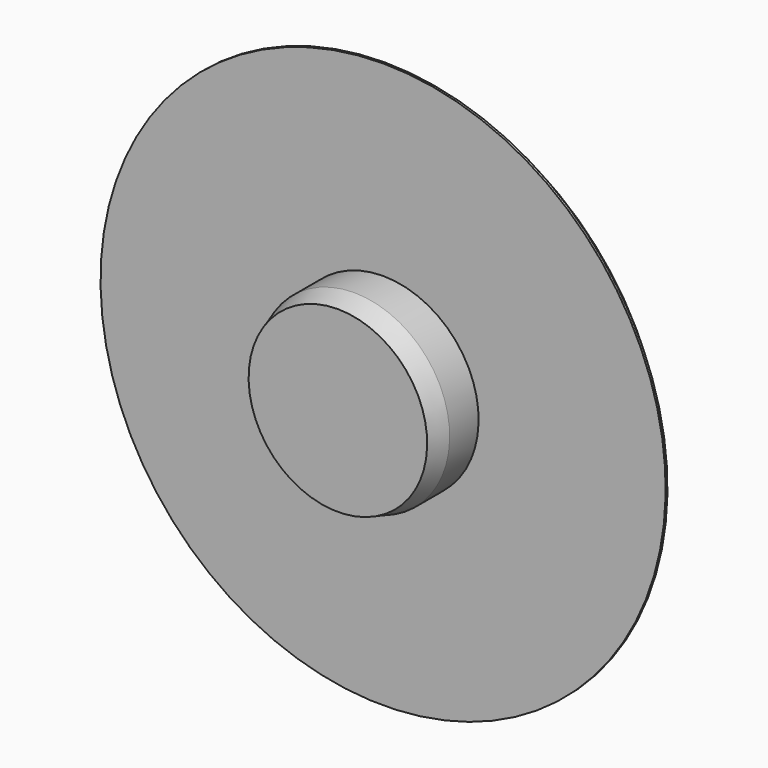
from build123d import *

# Parameters (mm, degrees)
F2_SIZE = 0.9


with BuildPart() as f1:
    # F0 (on Right) → F1 (revolve)
    with BuildSketch(Plane.YZ):
        Polygon((0, 0), (3.5, 0), (3.5, 12.5), (2.5, 12.5), (2.5, 4.225), (0.9, 4.225), (0, 3.95), align=None)
    revolve(axis=Axis((0, 1.75, 0), (0, -1, 0)))

    # F2
    f2_edges = [f1.edges().sort_by_distance(p)[0] for p in [
        (0, 3.5, -12.5),
    ]]
    chamfer(f2_edges, length=F2_SIZE)


solid = f1.part
